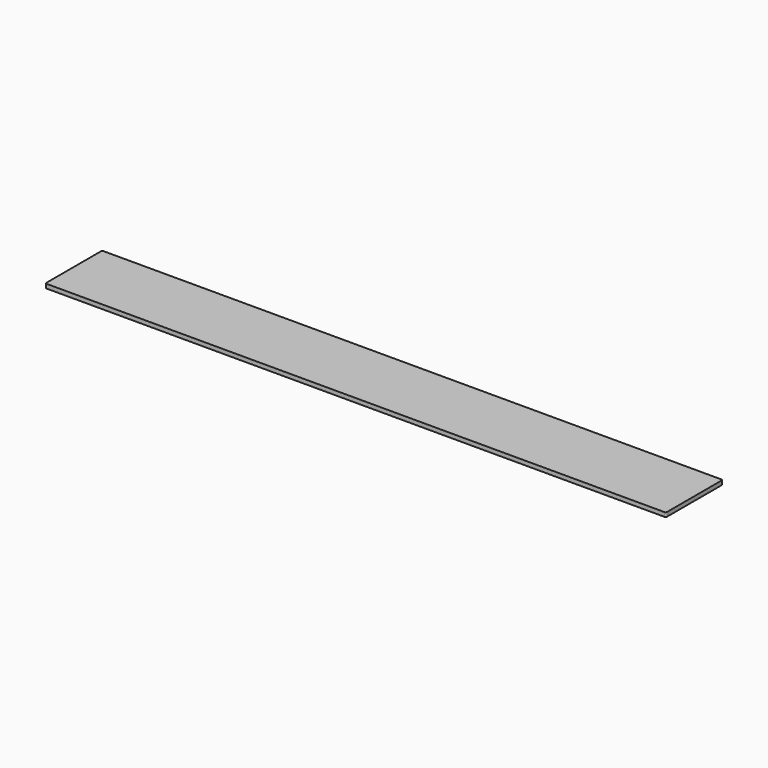
from build123d import *

# Parameters (mm, degrees)
PAD_DEPTH = 3


with BuildPart() as part:
    # Sketch → Pad (new body)
    with BuildSketch(Plane.XY):
        with BuildLine():
            ThreePointArc((-221.25, 25.4), (-221.957107, 25.107107), (-222.25, 24.4))
            Line((-222.25, -24.4), (-222.25, 24.4))
            ThreePointArc((-222.25, -24.4), (-221.957107, -25.107107), (-221.25, -25.4))
            Line((221.25, -25.4), (-221.25, -25.4))
            ThreePointArc((221.25, -25.4), (221.957107, -25.107107), (222.25, -24.4))
            Line((222.25, 24.4), (222.25, -24.4))
            ThreePointArc((222.25, 24.4), (221.957107, 25.107107), (221.25, 25.4))
            Line((-221.25, 25.4), (221.25, 25.4))
        make_face()
    extrude(amount=PAD_DEPTH)


solid = part.part
